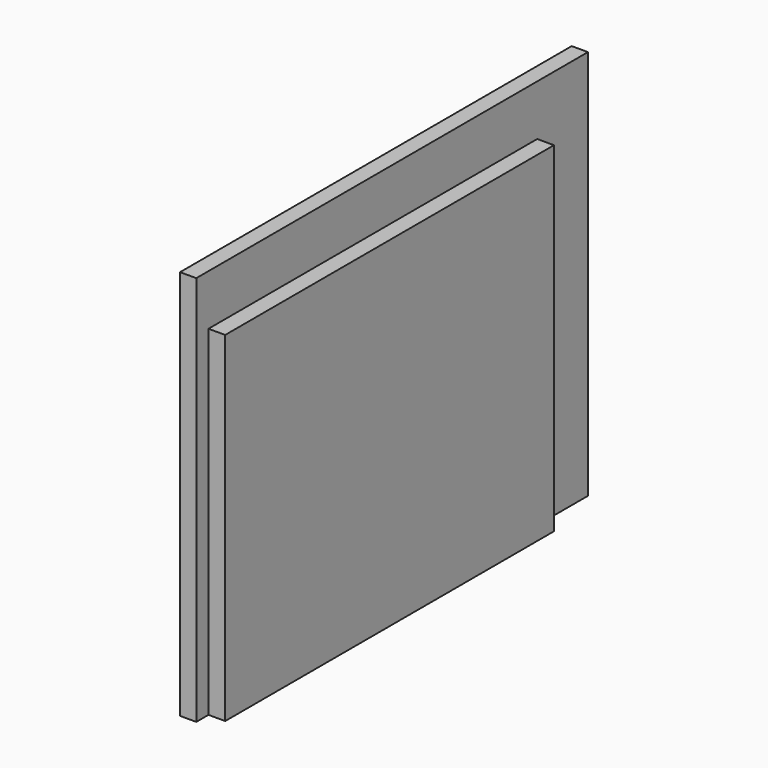
from build123d import *

# Parameters (mm, degrees)
F0_W     = 96.5
F0_H     = 77
F1_DEPTH = 1.6
F2_W     = 81
F2_H     = 67
F3_DEPTH = 3.3


with BuildPart() as f1:
    # F0 (on Right) → F1 (new body, symmetric)
    with BuildSketch(Plane.YZ):
        Rectangle(F0_W, F0_H)
    extrude(amount=F1_DEPTH, both=True)

    # F2 (on face) → F3 (join)
    with BuildSketch(Plane.YZ.offset(1.6)):
        with Locations((-4.75, -5)):
            Rectangle(F2_W, F2_H)
    extrude(amount=F3_DEPTH)


solid = f1.part
